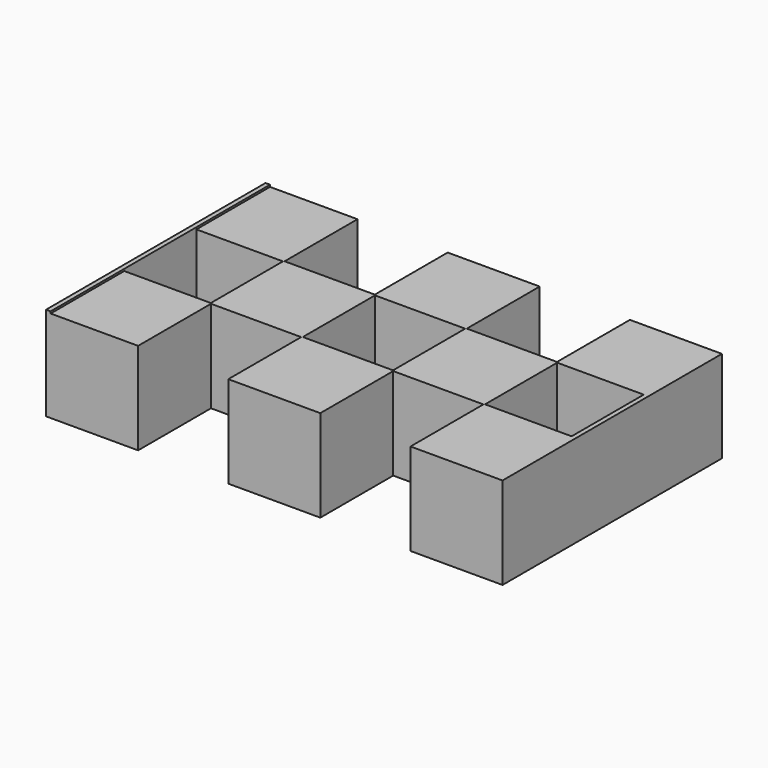
from build123d import *

# Parameters (mm, degrees)
F0_W      = 10.1
F0_H      = 10.1
F1_DEPTH  = 10.1
F9_W      = 30.1
F9_H      = 10.3136999533
F10_DEPTH = 0.5
F11_W     = 30.1
F11_H     = 10.1
F12_DEPTH = 0.5


with BuildPart() as f1:
    # F0 (on Top) → F1 (new body)
    with BuildSketch(Plane.XY):
        with Locations((5.05, 5.05)):
            Rectangle(F0_W, F0_H)
    extrude(amount=F1_DEPTH)


with BuildPart() as f2_1:
    # F2: copy of F1
    add(f1.part.moved(Location((20, 0, 0))))


with BuildPart() as f3_1:
    # F3: copy of F2_1
    add(f2_1.part.moved(Location((20, 0, 0))))


with BuildPart() as f4_1:
    # F4: copy of F1
    add(f1.part.moved(Location((10, 10, 0))))


with BuildPart() as f5_1:
    # F5: copy of F2_1
    add(f2_1.part.moved(Location((10, 10, 0))))


with BuildPart() as f6_1:
    # F6: copy of F4_1
    add(f4_1.part.moved(Location((-10, 10, 0))))


with BuildPart() as f7_1:
    # F7: copy of F4_1
    add(f4_1.part.moved(Location((10, 10, 0))))


with BuildPart() as f8_1:
    # F8: copy of F5_1
    add(f5_1.part.moved(Location((10, 10, 0))))


with BuildPart() as f1_1:
    add(f1.part)

    add(f6_1.part)  # F10 merges F6_1
    # F9 (on face) → F10 (join)
    with BuildSketch(Plane(origin=(0, 0, 0), x_dir=(0, -1, 0), z_dir=(-1, 0, 0))):
        with Locations((-15.05, 5.1568499766)):
            Rectangle(F9_W, F9_H)
    extrude(amount=-F10_DEPTH)

    add(f2_1.part)  # F12 merges F2_1

    add(f3_1.part)  # F12 merges F3_1

    add(f4_1.part)  # F12 merges F4_1

    add(f5_1.part)  # F12 merges F5_1

    add(f7_1.part)  # F12 merges F7_1

    add(f8_1.part)  # F12 merges F8_1
    # F11 (on face) → F12 (join)
    with BuildSketch(Plane.YZ.offset(50.1)):
        with Locations((15.05, 5.05)):
            Rectangle(F11_W, F11_H)
    extrude(amount=-F12_DEPTH)


solid = f1_1.part
